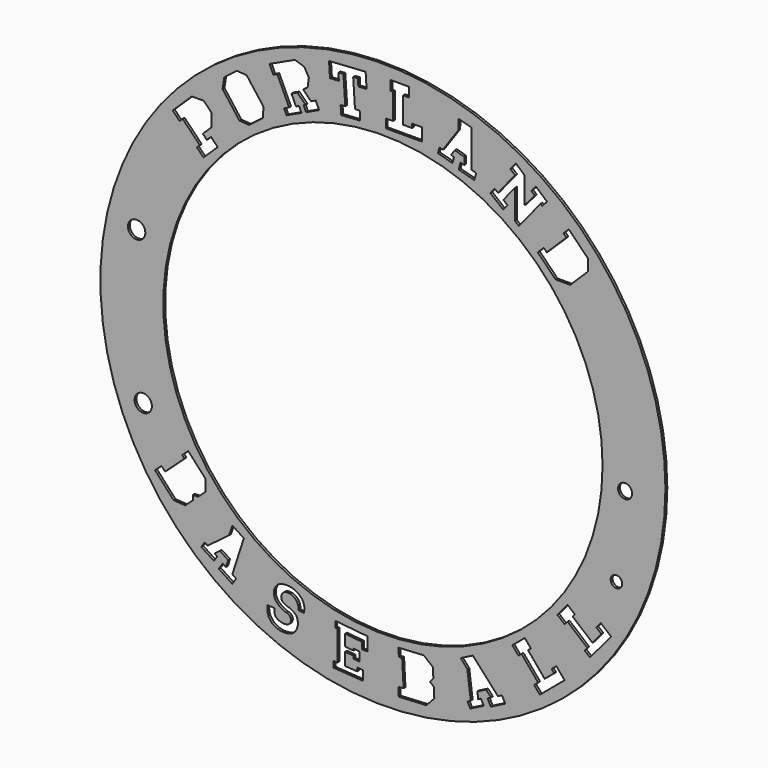
from build123d import *

# Parameters (mm, degrees)
F0_R     = 60.4840244733
F0_R_2   = 1.8579436228
F0_R_3   = 1.2310779192
F0_R_4   = 1.5030567981
F0_R_5   = 1.8602028763
F0_R_6   = 47.0235215388
F1_DEPTH = 0.508


with BuildPart() as f1:
    # F0 (on Front) → F1 (new body)
    with BuildSketch(Plane.XZ):
        with Locations((-1.2782195783, 1.0619129516)):
            Circle(F0_R)
        Polygon((-33.5310856412, -46.9946042451), (-36.4198930697, -45.104871336), (-35.587722604, -43.8327443536), (-34.8816386438, -44.2946339497), (-34.4488673123, -42.9620981234), (-34.397542831, -42.8040661439), (-36.0664805456, -41.712319255), (-36.1699607732, -41.6446269646), (-36.4296546313, -41.8411719665), (-37.3110412611, -42.5082348617), (-36.7482287061, -42.8764024995), (-37.452392026, -43.9528468052), (-40.1526631987, -42.1864461623), (-39.4484998789, -41.1100018567), (-38.8062977247, -41.5301027374), (-38.4533808912, -41.2630034682), (-34.2183115554, -38.0577612773), (-33.5036288924, -35.9978922984), (-31.0555709394, -37.5993059584), (-33.5194344595, -45.185729026), (-32.6989151754, -45.7224772628), align=None, mode=Mode.SUBTRACT)
        Polygon((-46.080179592, -35.312321686), (-50.0611195541, -30.9522409462), (-48.6793646789, -29.6906397216), (-47.9208410991, -30.5214043356), (-43.760756971, -26.7230698231), (-44.23678706, -26.2017031001), (-42.9541772697, -25.0306255732), (-39.2786240694, -29.0562348186), (-39.2786240694, -31.5409895502), (-40.8390658223, -32.965739527), (-41.9628301835, -32.965739527), (-41.9628301835, -33.9917843919), (-43.5757976384, -35.4644925782), align=None, mode=Mode.SUBTRACT)
        with BuildLine():
            ThreePointArc((-18.8299620724, -44.7446365379), (-18.1588550204, -46.0331147299), (-18.2134097642, -47.4848669492))
            Line((-18.2134097642, -47.4848669492), (-19.3486845321, -47.365598055))
            ThreePointArc((-19.3486845321, -47.365598055), (-20.1268528845, -45.357523813), (-22.2228428549, -44.8628176473))
            ThreePointArc((-22.2228428549, -44.8628176473), (-22.9805704541, -45.6556915629), (-22.8445006734, -46.7439402365))
            ThreePointArc((-22.8445006734, -46.7439402365), (-22.2706774695, -47.1973656951), (-21.5857027298, -47.4536415659))
            ThreePointArc((-21.5857027298, -47.4536415659), (-20.6266985556, -47.8531887545), (-19.8324265158, -48.5228594862))
            ThreePointArc((-19.8324265158, -48.5228594862), (-19.5354593757, -50.4047743977), (-20.4946471578, -52.0509068393))
            ThreePointArc((-20.4946471578, -52.0509068393), (-22.850868349, -52.5260683159), (-25.0616984642, -51.5827831351))
            ThreePointArc((-25.0616984642, -51.5827831351), (-25.9054514579, -50.1689460674), (-25.9408539361, -48.5228594862))
            Line((-25.9408539361, -48.5228594862), (-24.4565641707, -48.6634109639))
            ThreePointArc((-24.4565641707, -48.6634109639), (-24.4818291493, -49.4446884943), (-24.2456270582, -50.1898337625))
            ThreePointArc((-24.2456270582, -50.1898337625), (-23.0922897615, -50.8065969333), (-21.7848399854, -50.8406382524))
            ThreePointArc((-21.7848399854, -50.8406382524), (-20.9707021588, -49.6944791532), (-21.9264215058, -48.6634109639))
            ThreePointArc((-21.9264215058, -48.6634109639), (-23.2157041319, -48.0595307478), (-24.2456270582, -47.0765863084))
            ThreePointArc((-24.2456270582, -47.0765863084), (-24.5773092963, -45.3175246455), (-23.5796941644, -43.8312288843))
            ThreePointArc((-23.5796941644, -43.8312288843), (-21.0559881171, -43.5139627012), (-18.8299620724, -44.7446365379))
        make_face(mode=Mode.SUBTRACT)
        Polygon((-11.4686715001, -46.7869472364), (-11.4106506309, -46.7926260554), (-4.8610212481, -47.4336740099), (-4.6022519144, -47.4590011761), (-4.6022519144, -50.3221709751), (-5.7446438088, -50.3221709751), (-5.7446438088, -48.8868725025), (-9.3619982535, -48.532822291), (-9.3619982535, -50.9611364924), (-7.5771463351, -51.1358296856), (-7.5771463351, -50.7453565024), (-6.3047690672, -50.8698910062), (-6.3047690672, -52.797402861), (-7.5771463351, -52.6728683572), (-7.5771463351, -52.1115731918), (-9.3619982535, -51.9368799985), (-9.3619982535, -54.6305810306), (-6.7869076179, -54.7998800582), (-6.7634888193, -54.0446598553), (-5.5670368849, -54.1617631325), (-5.5670368849, -56.1692823194), (-11.8337586694, -55.7572774408), (-11.8337586694, -54.4680754359), (-11.0098385308, -54.5222439675), (-11.0098385308, -48.1165234469), (-11.4686715001, -48.0716149614), align=None, mode=Mode.SUBTRACT)
        with Locations((-52.5976999817, -19.1179348211)):
            Circle(F0_R_2, mode=Mode.SUBTRACT)
        Polygon((8.0164663294, -56.3679632269), (2.120850149, -56.6840279247), (2.0206859633, -54.8156459186), (3.1440296792, -54.7554233259), (2.842462848, -49.1302386651), (2.1374809287, -49.1680328312), (2.0445038258, -47.4337128761), (7.4878541716, -47.1418942045), (9.4098682313, -48.7166538785), (9.522985529, -50.8266527974), (8.8107788969, -51.6959099818), (9.6044478377, -52.3461850598), (9.721372753, -54.5272082089), align=None, mode=Mode.SUBTRACT)
        Polygon((24.8940418836, -50.5833277266), (21.8165198417, -52.1470274768), (21.1279226632, -50.7917973602), (21.8801323569, -50.4095969749), (20.9402162904, -49.3706068201), (20.8287470199, -49.247387866), (19.050784061, -50.1507770853), (18.9405438705, -50.2067905129), (18.9816219712, -50.5298747548), (19.1210387789, -51.6264048507), (19.7206177008, -51.3217566963), (20.3032926397, -52.468520944), (17.4266231978, -53.9301667832), (16.8439482589, -52.7834025355), (17.5281029953, -52.4357811128), (17.4722789827, -51.9967184857), (16.8023801808, -46.7278831896), (15.3721925806, -45.0821629986), (17.9801726888, -43.7570391528), (23.3313240705, -49.6722413721), (24.2054447051, -49.22809761), align=None, mode=Mode.SUBTRACT)
        Polygon((27.7518861065, -40.6077905579), (26.4506573694, -39.0570465357), (29.1006617127, -36.8334288686), (30.4018904498, -38.3841728908), (29.787236833, -38.899928514), (33.3520601968, -43.1483195647), (34.8220363012, -41.9148631576), (35.3922128544, -41.4364282221), (34.850034214, -40.7902848795), (35.8629081366, -39.9403827445), (37.6123549644, -42.0252922867), (32.3131626281, -46.4718426216), (31.1058944407, -45.0330764221), (31.7006742907, -44.5339968694), (31.9667525727, -44.310730681), (28.401929209, -40.0623396303), (28.1358509269, -40.2856058187), align=None, mode=Mode.SUBTRACT)
        Polygon((37.6259102749, -31.4911719867), (36.0751662527, -30.1899432496), (38.247987132, -27.6004761606), (39.7987311542, -28.9017048977), (39.3337723189, -29.4558212601), (43.5821633696, -33.0206446238), (44.8156197766, -31.5506685194), (45.4958239433, -30.7400327601), (44.4317638497, -29.847180328), (45.3727789666, -28.7257221818), (47.5703768158, -30.5697257265), (43.0424806942, -35.9658621963), (41.9089429386, -35.0147110837), (42.1964860649, -34.6720305299), (42.4838192798, -34.3296001388), (38.2354282291, -30.764776775), (37.9480950142, -31.1072071662), align=None, mode=Mode.SUBTRACT)
        with Locations((48.7131454828, -19.8520163129)):
            Circle(F0_R_3, mode=Mode.SUBTRACT)
        with Locations((50.5681537869, -2.1671144813)):
            Circle(F0_R_4, mode=Mode.SUBTRACT)
        with Locations((-54.0084003625, 13.1100507398)):
            Circle(F0_R_5, mode=Mode.SUBTRACT)
        Polygon((-44.8155457354, 36.5645180918), (-46.2837347961, 38.0762110926), (-42.2019266114, 42.0405518162), (-39.6474963169, 42.0786431704), (-37.9255614124, 40.3056855775), (-37.9255614124, 37.6576180807), (-39.8439047815, 35.7944813541), (-38.9775244456, 34.9024292848), (-38.0842625437, 35.7699846363), (-36.6589285637, 34.3024165559), (-39.6920604076, 31.3565730609), (-41.1053480221, 32.8117378297), (-40.4770962307, 33.4219096086), (-44.1536310989, 37.2073839567), align=None, mode=Mode.SUBTRACT)
        Polygon((-35.6077710374, 45.5911933815), (-35.2346876836, 47.9604493357), (-32.5247029042, 50.013467995), (-30.4614192075, 49.880020646), (-26.8449790191, 45.1063193348), (-26.987006557, 42.9103738513), (-29.9439039805, 40.6703001688), (-31.9795648506, 40.8019609516), align=None, mode=Mode.SUBTRACT)
        Polygon((-24.7245166519, 51.7941373845), (-25.5601441688, 53.5912218965), (-20.1006977087, 56.1298135198), (-18.1065684384, 55.4461147166), (-17.1379910982, 53.7368583955), (-17.3943804777, 51.799703715), (-18.334470523, 51.1160049118), (-16.6537033594, 49.4352358855), (-15.6596305372, 49.8974704651), (-14.9332822684, 48.3353998081), (-17.7274003218, 47.0361610049), (-18.2616708528, 48.1851529627), (-17.8374900508, 48.3823930747), (-19.5809780626, 50.1258830187), (-20.8612120721, 49.5305861592), (-19.968462934, 47.6106569838), (-19.8846776496, 47.430469958), (-19.2373248678, 47.7314829565), (-18.7030543368, 46.5824909987), (-21.9109236371, 45.0908617293), (-22.4451941681, 46.2398536871), (-21.3510806754, 46.7486062443), (-23.8798386957, 52.1869047464), align=None, mode=Mode.SUBTRACT)
        Polygon((-12.8153300113, 58.2918677009), (-5.4462941563, 58.775671152), (-4.9820293319, 58.8061517913), (-4.7727424322, 55.6184054768), (-6.5410375055, 55.5023106068), (-6.588731669, 56.2287626398), (-6.6418179163, 57.0373440155), (-7.6466092979, 56.9713758824), (-7.5935230506, 56.1627945067), (-7.2568763608, 51.0351718703), (-7.255426838, 51.0130935135), (-6.2506354564, 51.0790616466), (-6.1272189796, 49.1992477661), (-10.2071913676, 48.9313830467), (-10.3306078444, 50.8111969272), (-9.3420720428, 50.8760978235), (-9.6801682553, 56.0257988168), (-9.7332545026, 56.8343801924), (-10.8025273621, 56.7641786207), (-10.7494411148, 55.955597245), (-10.7017469513, 55.229145212), (-12.6060431115, 55.1041213863), align=None, mode=Mode.SUBTRACT)
        with Locations((-1.2782195783, 1.0619129516)):
            Circle(F0_R_6, mode=Mode.SUBTRACT)
        Polygon((25.9883237749, 50.5597115634), (27.1658042246, 52.0117919422), (29.0311669731, 50.3817017652), (29.0311669731, 44.6847866751), (31.24855421, 47.2222116648), (30.4806935382, 47.8932243884), (30.6632799626, 48.102163697), (31.4720997312, 49.0277212445), (33.8458237905, 46.9533878339), (33.037004022, 46.0278302864), (32.8544175975, 45.8188909778), (32.4912771543, 46.1362296133), (27.8341219104, 40.3929803281), (27.0092576861, 41.0618561782), (27.0092576861, 47.3567921199), (24.7799820107, 44.6076276066), (24.4940042429, 44.2549570332), (25.3964325343, 43.5231850971), (24.4831039291, 42.3968593501), (21.7344508991, 44.6257202678), (22.6477795043, 45.7520460148), (23.3439426563, 45.1875328424), (26.698236437, 49.3240806596), (27.0211011581, 49.7222405837), align=None, mode=Mode.SUBTRACT)
        Polygon((0.3984331186, 56.9732602216), (0.3984331186, 58.9976127721), (4.2784415917, 58.9976127721), (4.2784415917, 56.9732602216), (3.0553947934, 56.9732602216), (3.0553947934, 51.4273795761), (4.9743123153, 51.4273795761), (4.9743123153, 52.2708598055), (7.0408379459, 52.2708598055), (7.0408379459, 49.5492036916), (-0.6531963092, 49.5492036916), (-0.6531963092, 51.4273795761), (0.8996635941, 51.4273795761), (0.8996635941, 56.9732602216), align=None, mode=Mode.SUBTRACT)
        Polygon((18.2754635337, 45.9484108712), (14.9442050791, 46.853405863), (15.3427323525, 48.3203723778), (16.156960445, 48.0991729855), (16.156960445, 49.5002235748), (16.156960445, 49.666381057), (14.2324074903, 50.1892197407), (14.1130781853, 50.2216376467), (13.926794885, 49.954487184), (13.2945596391, 49.0477932492), (13.9435728145, 48.871477397), (13.606348292, 47.6301644044), (10.4925023896, 48.4760954497), (10.8297269121, 49.7174084424), (11.5702890328, 49.5162217078), (11.8234429309, 49.8792718626), (14.8613380068, 54.2359429873), (14.9047968319, 56.4158381338), (17.7278004259, 55.6489195205), (17.7278004259, 47.6724266567), (18.6739908072, 47.415377386), align=None, mode=Mode.SUBTRACT)
        Polygon((37.3929766815, 42.1617633263), (38.5196378255, 43.2646049707), (42.6355248117, 39.0598218418), (42.6388927386, 36.6600046962), (38.8292988562, 32.8795428849), (35.6810970032, 32.8795428849), (31.8786987563, 36.7640664521), (33.1739726401, 38.0319560813), (33.8050267248, 37.387272304), (38.0240307663, 41.517079549), align=None, mode=Mode.SUBTRACT)
    extrude(amount=F1_DEPTH)


solid = f1.part
